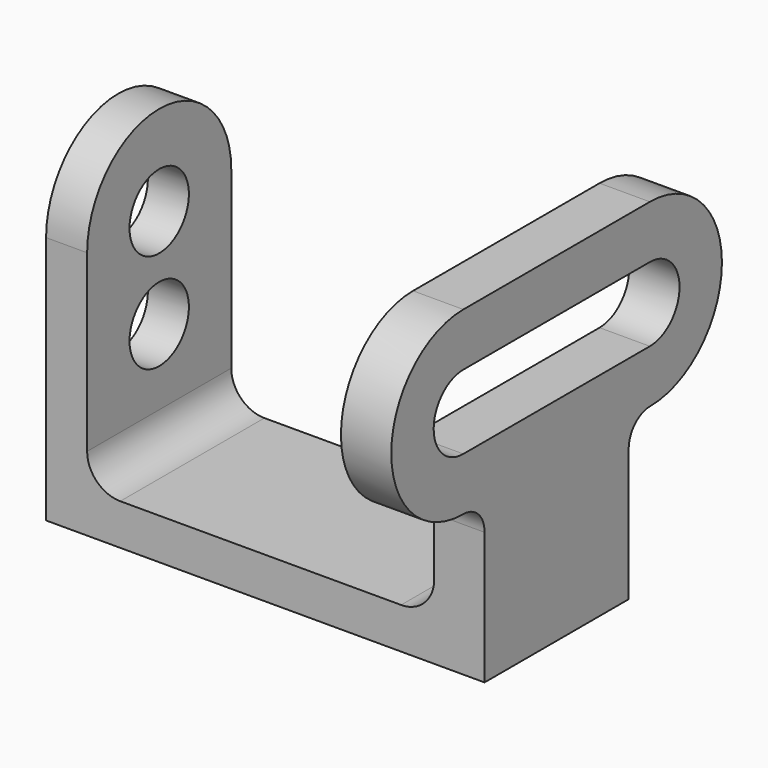
from build123d import *

# Parameters (mm, degrees)
F0_W     = 84.074
F0_H     = 7.874
F1_DEPTH = 34.544
F3_DEPTH = 9.652
F4_R     = 7.112
F5_DEPTH = 7.874
F7_DEPTH = 34.544


with BuildPart() as f1:
    # F0 (on Front) → F1 (new body)
    with BuildSketch(Plane.XZ):
        with Locations((42.037, 3.937)):
            Rectangle(F0_W, F0_H)
    extrude(amount=-F1_DEPTH)

    # F2 (on face) → F3 (join)
    with BuildSketch(Plane.YZ.offset(84.074)):
        with BuildLine():
            ThreePointArc((39.624, 30.48), (56.896, 47.752), (39.624, 65.024))
            Line((39.624, 65.024), (-5.08, 65.024))
            ThreePointArc((-5.08, 65.024), (-22.352, 47.752), (-5.08, 30.48))
            ThreePointArc((-5.08, 30.48), (-1.4676692436, 28.9718933592), (0, 25.3429450095))
            Line((0, 25.3429450095), (0, 7.874))
            Line((0, 7.874), (34.544, 7.874))
            Line((34.544, 7.874), (34.544, 25.3429450095))
            ThreePointArc((34.544, 25.3429450095), (36.028473474, 28.9552757659), (39.624, 30.48))
        make_face()
        with BuildLine():
            ThreePointArc((39.624, 54.864), (46.736, 47.752), (39.624, 40.64))
            Line((39.624, 40.64), (-5.08, 40.64))
            ThreePointArc((-5.08, 40.64), (-12.192, 47.752), (-5.08, 54.864))
            Line((-5.08, 54.864), (39.624, 54.864))
        make_face(mode=Mode.SUBTRACT)
    extrude(amount=-F3_DEPTH)

    # F4 (on face) → F5 (join)
    with BuildSketch(Plane(origin=(0, 0, 0), x_dir=(0, -1, 0), z_dir=(-1, 0, 0))):
        with BuildLine():
            Line((-34.544, 47.752), (-34.544, 7.874))
            Line((-34.544, 7.874), (0, 7.874))
            Line((0, 7.874), (0, 47.752))
            ThreePointArc((0, 47.752), (-17.272, 65.024), (-34.544, 47.752))
        make_face()
        with Locations((-17.272, 28.702)):
            Circle(F4_R, mode=Mode.SUBTRACT)
        with Locations((-17.272, 47.752)):
            Circle(F4_R, mode=Mode.SUBTRACT)
    extrude(amount=-F5_DEPTH)

    # F6 (on face) → F7 (join)
    with BuildSketch(Plane.XZ):
        with BuildLine():
            ThreePointArc((74.422, 14.224), (72.5621280605, 9.7338719395), (68.072, 7.874))
            Line((68.072, 7.874), (74.422, 7.874))
            Line((74.422, 7.874), (74.422, 14.224))
        make_face()
        with BuildLine():
            Line((7.874, 14.224), (7.874, 7.874))
            Line((7.874, 7.874), (14.224, 7.874))
            ThreePointArc((14.224, 7.874), (9.7338719395, 9.7338719395), (7.874, 14.224))
        make_face()
    extrude(amount=-F7_DEPTH)


solid = f1.part
